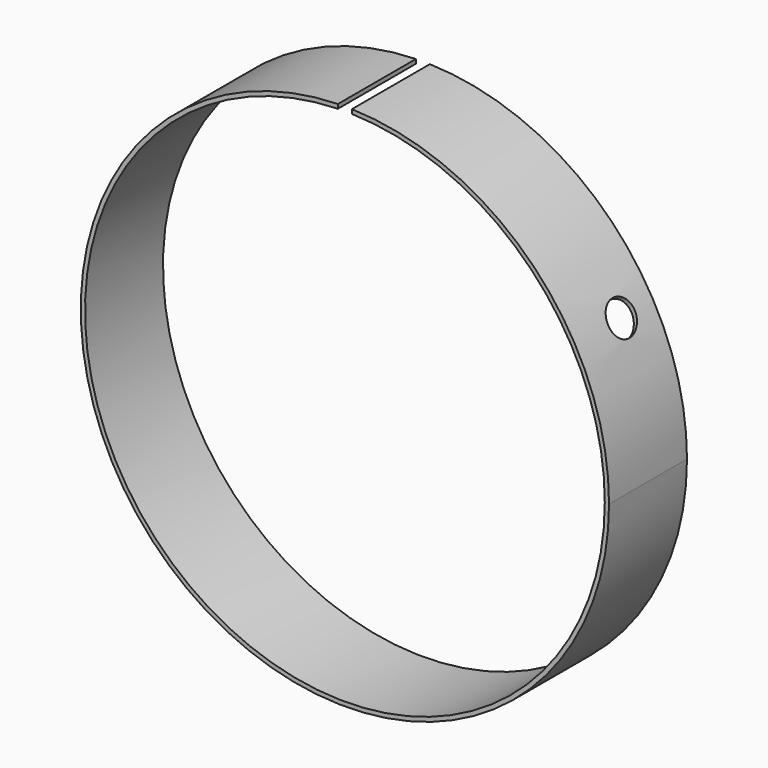
from build123d import *

# Parameters (mm, degrees)
F0_R     = 296.8625
F0_R_2   = 292.1
F1_DEPTH = 109.5375
F2_W     = 15.704696998
F2_H     = 243.4227466583
F3_DEPTH = 304.8
F5_R     = 18.5604428804
F6_DEPTH = 304.8


with BuildPart() as f1:
    # F0 (on Front) → F1 (new body)
    with BuildSketch(Plane.XZ):
        Circle(F0_R)
        Circle(F0_R_2, mode=Mode.SUBTRACT)
    extrude(amount=F1_DEPTH)

    # F2 (on Top) → F3 (cut)
    with BuildSketch(Plane.XY):
        Rectangle(F2_W, F2_H)
    extrude(amount=F3_DEPTH, mode=Mode.SUBTRACT)

    # F5 (on face) → F6 (cut)
    with BuildSketch(Plane(origin=(0, 0, 0), x_dir=(0, 1, 0), z_dir=(0.7071067812, 0, 0.7071067812))):
        with Locations((-44.45, -80.0073221326)):
            Circle(F5_R)
    extrude(amount=F6_DEPTH, mode=Mode.SUBTRACT)


solid = f1.part
